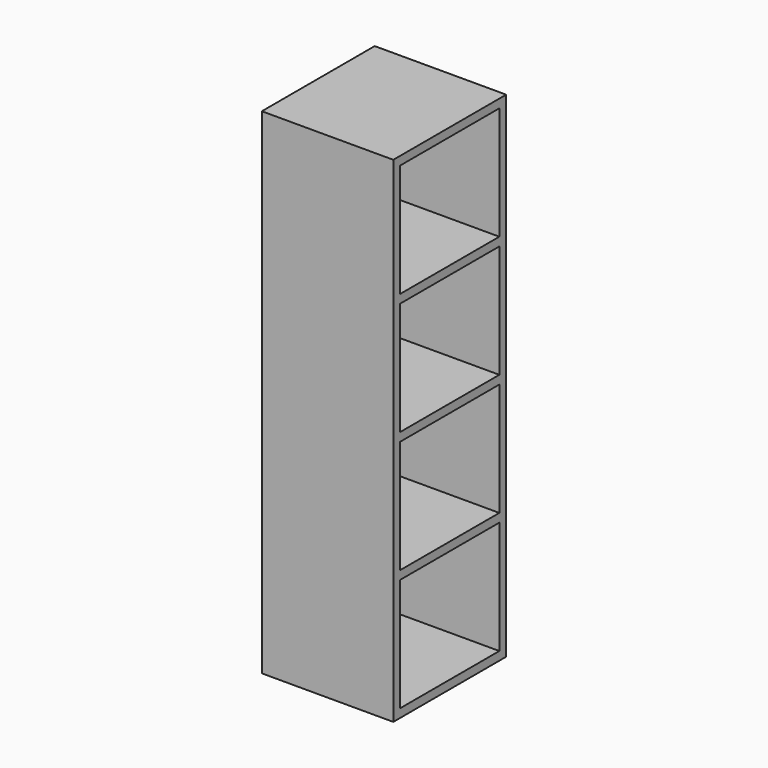
from build123d import *

# Parameters (mm, degrees)
F0_W     = 390.525
F0_H     = 419.1
F1_DEPTH = 1470.025
F3_DEPTH = 390.526


with BuildPart() as f1:
    # F0 (on Top) → F1 (new body)
    with BuildSketch(Plane.XY):
        Rectangle(F0_W, F0_H)
    extrude(amount=F1_DEPTH)

    # F2 (on face) → F3 (cut, through all)
    with BuildSketch(Plane.YZ.offset(195.2625)):
        Polygon((-184.15, 1108.86875), (0, 1108.86875), (184.15, 1108.86875), (184.15, 1276.746875), (184.15, 1444.625), (0, 1444.625), (-184.15, 1444.625), align=None)
        Polygon((-184.15, 747.7125), (0, 747.7125), (184.15, 747.7125), (184.15, 1083.46875), (0, 1083.46875), (-184.15, 1083.46875), align=None)
        Polygon((-184.15, 386.55625), (0, 386.55625), (184.15, 386.55625), (184.15, 722.3125), (0, 722.3125), (-184.15, 722.3125), align=None)
        Polygon((0, 25.4), (184.15, 25.4), (184.15, 361.15625), (0, 361.15625), (-184.15, 361.15625), (-184.15, 25.4), align=None)
    extrude(amount=-F3_DEPTH, mode=Mode.SUBTRACT)


solid = f1.part
